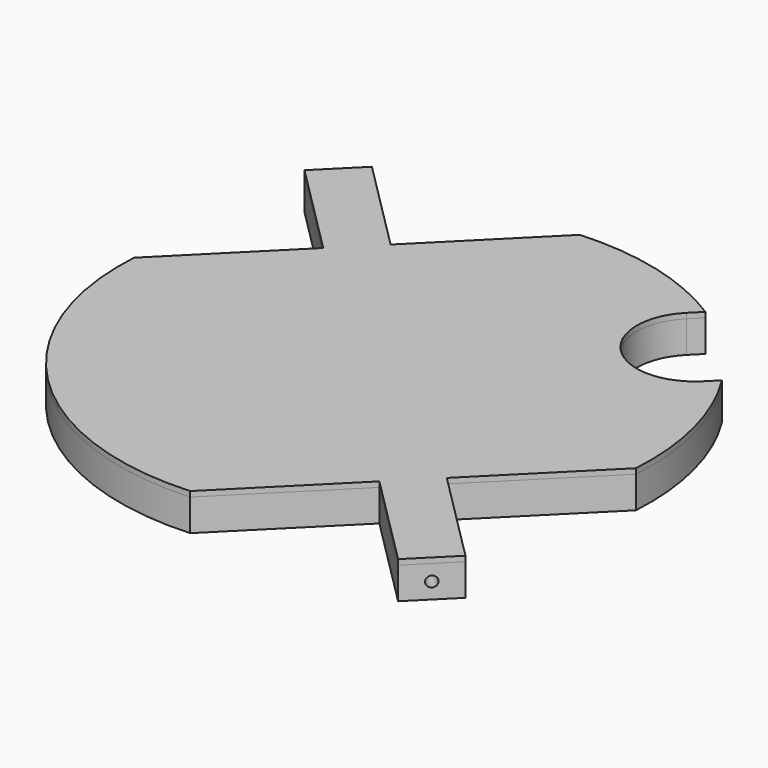
from build123d import *

# Parameters (mm, degrees)
F1_DEPTH = 0.6
F2_R     = 0.1
F3_DEPTH = 12.5
F5_DEPTH = 0.1


with BuildPart() as f1:
    # F0 (on Top) → F1 (new body)
    with BuildSketch(Plane.XY):
        with BuildLine():
            Line((-3.00520382, 2.2980970389), (-4.9901862962, 0.3131145627))
            ThreePointArc((-4.9901862962, 0.3131145627), (-3.5355339059, -3.5355339059), (0.3131145627, -4.9901862962))
            Line((0.3131145627, -4.9901862962), (2.2980970389, -3.00520382))
            Line((2.2980970389, -3.00520382), (4.0658639918, -4.772970773))
            Line((4.0658639918, -4.772970773), (4.772970773, -4.0658639918))
            Line((4.772970773, -4.0658639918), (3.00520382, -2.2980970389))
            Line((3.00520382, -2.2980970389), (4.9901862962, -0.3131145627))
            ThreePointArc((4.9901862962, -0.3131145627), (4.8439927049, 1.2392476245), (4.2267303315, 2.6710954129))
            Line((4.2267303315, 2.6710954129), (4.0305086528, 2.4748737342))
            ThreePointArc((4.0305086528, 2.4748737342), (2.4748737342, 2.4748737342), (2.4748737342, 4.0305086528))
            Line((2.4748737342, 4.0305086528), (2.6710954129, 4.2267303315))
            ThreePointArc((2.6710954129, 4.2267303315), (1.2392476245, 4.8439927049), (-0.3131145627, 4.9901862962))
            Line((-0.3131145627, 4.9901862962), (-2.2980970389, 3.00520382))
            Line((-2.2980970389, 3.00520382), (-4.0658639918, 4.772970773))
            Line((-4.0658639918, 4.772970773), (-4.772970773, 4.0658639918))
            Line((-4.772970773, 4.0658639918), (-3.00520382, 2.2980970389))
        make_face()
    extrude(amount=F1_DEPTH)

    # F2 (on face) → F3 (cut, through all)
    with BuildSketch(Plane(origin=(-4.4194173824, 4.4194173824, 0), x_dir=(-0.7071067812, -0.7071067812, 0), z_dir=(-0.7071067812, 0.7071067812, 0))):
        with Locations((0, 0.3)):
            Circle(F2_R)
    extrude(amount=-F3_DEPTH, mode=Mode.SUBTRACT)


with BuildPart() as f5:
    # F4 (on face) → F5 (new body)
    with BuildSketch(Plane.XY.offset(0.6)):
        with BuildLine():
            ThreePointArc((4.0305086528, 2.4748737342), (2.4748737342, 2.4748737342), (2.4748737342, 4.0305086528))
            Line((2.4748737342, 4.0305086528), (2.6710954129, 4.2267303315))
            ThreePointArc((2.6710954129, 4.2267303315), (1.2392476245, 4.8439927049), (-0.3131145627, 4.9901862962))
            Line((-0.3131145627, 4.9901862962), (-2.2980970389, 3.00520382))
            Line((-2.2980970389, 3.00520382), (-4.0658639918, 4.772970773))
            Line((-4.0658639918, 4.772970773), (-4.772970773, 4.0658639918))
            Line((-4.772970773, 4.0658639918), (-3.00520382, 2.2980970389))
            Line((-3.00520382, 2.2980970389), (-4.9901862962, 0.3131145627))
            ThreePointArc((-4.9901862962, 0.3131145627), (-3.5355339059, -3.5355339059), (0.3131145627, -4.9901862962))
            Line((0.3131145627, -4.9901862962), (2.2980970389, -3.00520382))
            Line((2.2980970389, -3.00520382), (4.0658639918, -4.772970773))
            Line((4.0658639918, -4.772970773), (4.772970773, -4.0658639918))
            Line((4.772970773, -4.0658639918), (3.00520382, -2.2980970389))
            Line((3.00520382, -2.2980970389), (4.9901862962, -0.3131145627))
            ThreePointArc((4.9901862962, -0.3131145627), (4.8439927049, 1.2392476245), (4.2267303315, 2.6710954129))
            Line((4.2267303315, 2.6710954129), (4.0305086528, 2.4748737342))
        make_face()
    extrude(amount=F5_DEPTH)


solid = Compound([f1.part, f5.part])
